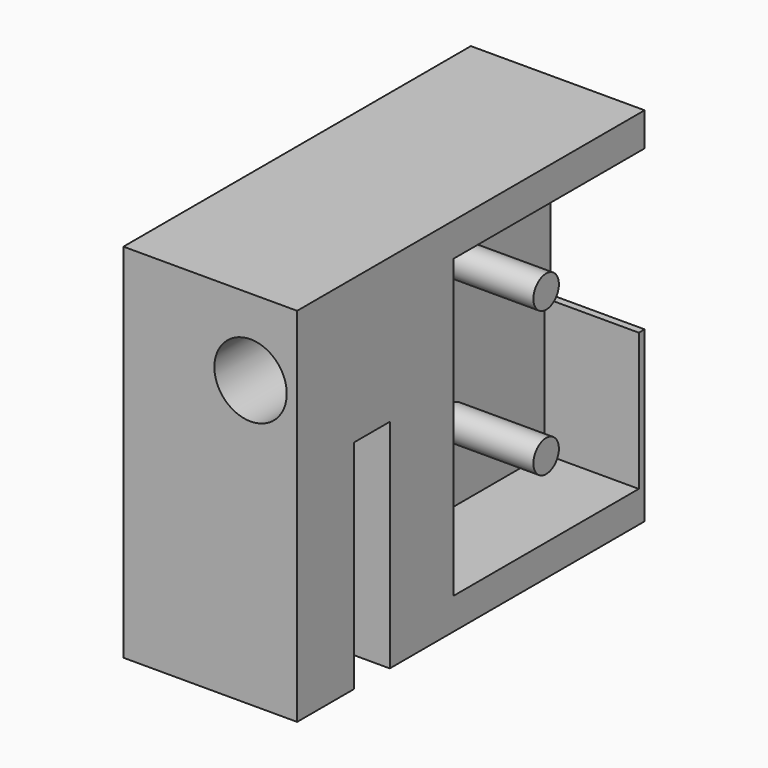
from build123d import *

# Parameters (mm, degrees)
F1_DEPTH = 12
F2_R     = 1.1
F3_DEPTH = 6.5
F4_R     = 2.5
F5_DEPTH = 25


with BuildPart() as f1:
    # F0 (on Right) → F1 (new body)
    with BuildSketch(Plane.YZ):
        Polygon((25.1, -0.075058), (-4.9, -0.075058), (-4.9, -25.075058), (0, -25.075058), (0, -10.075058), (3.1, -10.075058), (3.1, -25.075058), (25.1, -25.075058), align=None)
    extrude(amount=F1_DEPTH)

    # F2 (on face) → F3 (cut)
    with BuildSketch(Plane.YZ.offset(12)):
        Polygon((24.6, -2.396713), (8.6, -2.396713), (8.6, -22.896713), (24.6, -22.896713), (24.6, -13.396713), (28.479045, -13.396713), (28.479045, -2.396713), align=None)
        with Locations((16.6, -17.646713)):
            Circle(F2_R, mode=Mode.SUBTRACT)
        with Locations((16.6, -7.646713)):
            Circle(F2_R, mode=Mode.SUBTRACT)
    extrude(amount=-F3_DEPTH, mode=Mode.SUBTRACT)

    # F4 (on face) → F5 (cut)
    with BuildSketch(Plane(origin=(0, 8.6, 0), x_dir=(-1, 0, 0), z_dir=(0, 1, 0))):
        with Locations((-8.783709, -5.351877)):
            Circle(F4_R)
    extrude(amount=-F5_DEPTH, mode=Mode.SUBTRACT)


solid = f1.part
